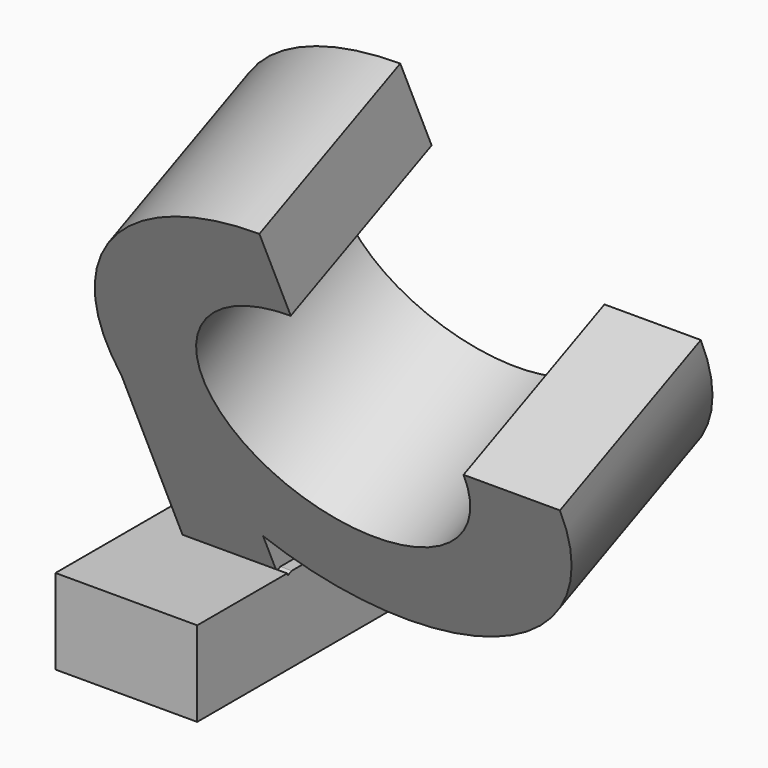
from build123d import *

# Parameters (mm, degrees)
F2_R      = 40
F2_R_2    = 23
F4_DEPTH  = 34
F8_DEPTH  = 25
F11_DEPTH = 34
F12_DEPTH = 25
F13_DEPTH = 180.6
F15_DEPTH = 6.54


with BuildPart() as f4:
    # F2 (on line) → F4 (new body)
    with BuildSketch(Plane(origin=(0, 0, 0), x_dir=(-1, 0, 0), z_dir=(0, 0.9135454576, 0.4067366431))):
        Circle(F2_R)
        Circle(F2_R_2, mode=Mode.SUBTRACT)
    extrude(amount=-F4_DEPTH)



with BuildPart() as f8:
    # F7 (on offset) → F8 (new body)
    with BuildSketch(Plane.YZ.offset(-46)):
        Polygon((-14.7910798368, -50.3708641703), (-14.9561992038, -50), (-34.7910798368, -50), (-34.7910798368, -65), (-14.7910798368, -65), align=None)
        Polygon((42.1320945024, -50), (22.2614342654, -50), (28.9398645451, -65), (42.1320945024, -65), align=None)
        Polygon((22.2614342654, -50), (0, -50), (0, -65), (28.9398645451, -65), align=None)
        Polygon((-8.2777689242, -65), (-14.7910798368, -50.3708641703), (-14.7910798368, -65), align=None)
        Polygon((0, -65), (0, -50), (-13.9581052722, -50), (-14.7910798368, -50.3708641703), (-8.2777689242, -65), align=None)
    extrude(amount=F8_DEPTH)


with BuildPart() as f4_1:
    add(f4.part)

    add(f8.part)  # F11 merges F8
    # F10 (on face) → F11 (join, through all)
    with BuildSketch(Plane(origin=(0, 0, 0), x_dir=(-1, 0, 0), z_dir=(0, 0.9135454576, 0.4067366431))):
        with BuildLine():
            ThreePointArc((39.4592955709, -6.5546924453), (33.8604048962, -21.2949050306), (23, -32.7261363439))
            Line((23, -32.7261363439), (23, -83.8858187199))
            Line((23, -83.8858187199), (39.4592955709, -83.8858187199))
            Line((39.4592955709, -83.8858187199), (39.4592955709, -6.5546924453))
        make_face()
    extrude(amount=-F11_DEPTH)

    # F12 (cut): a face of the model
    f12_faces = [f4_1.faces().sort_by_distance(p)[0] for p in [
        (-39.4592955709, 12.3389864526, -74.7036267653),
    ]]
    extrude(f12_faces, amount=-F12_DEPTH, mode=Mode.SUBTRACT)

    # F9 (on line) → F13 (cut)
    with BuildSketch(Plane(origin=(0, 0, 0), x_dir=(-1, 0, 0), z_dir=(0, 0.9135454576, 0.4067366431))):
        with BuildLine():
            Line((0, 23), (0, 40))
            ThreePointArc((0, 40), (-28.2842712475, 28.2842712475), (-40, 0))
            Line((-40, 0), (-23, 0))
            ThreePointArc((-23, 0), (-16.2634559673, 16.2634559673), (0, 23))
        make_face()
    extrude(amount=-F13_DEPTH, mode=Mode.SUBTRACT)

    # F14 (on face) → F15 (join)
    with BuildSketch(Plane(origin=(-39.4592955709, 0, 0), x_dir=(0, -1, 0), z_dir=(-1, 0, 0))):
        Polygon((14.7910798368, -50.3708641703), (14.9561992038, -50), (13.9581052722, -50), align=None)
    extrude(amount=F15_DEPTH)


solid = f4_1.part
